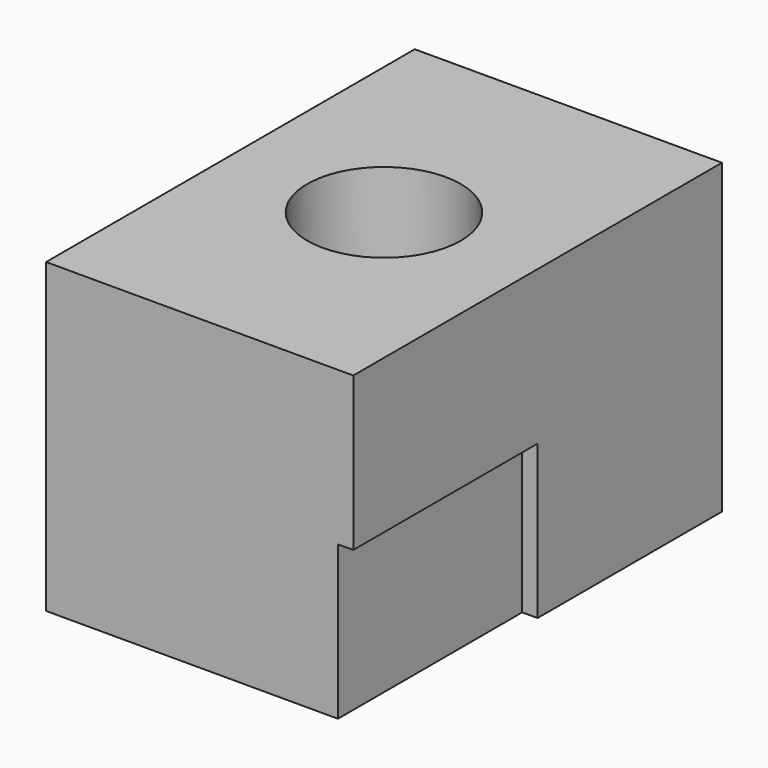
from build123d import *

# Parameters (mm, degrees)
F0_W     = 50.8
F0_H     = 76.2
F1_DEPTH = 50.8
F2_R     = 12.7
F3_DEPTH = 25.4
F4_W     = 38.1
F4_H     = 25.4
F5_DEPTH = 2.54


with BuildPart() as f1:
    # F0 (on Top) → F1 (new body)
    with BuildSketch(Plane.XY):
        Rectangle(F0_W, F0_H)
    extrude(amount=F1_DEPTH)

    # F2 (on face) → F3 (cut)
    with BuildSketch(Plane.XY.offset(50.8)):
        Circle(F2_R)
    extrude(amount=-F3_DEPTH, mode=Mode.SUBTRACT)

    # F4 (on face) → F5 (cut)
    with BuildSketch(Plane.YZ.offset(25.4)):
        with Locations((-19.05, 12.7)):
            Rectangle(F4_W, F4_H)
    extrude(amount=-F5_DEPTH, mode=Mode.SUBTRACT)


solid = f1.part
